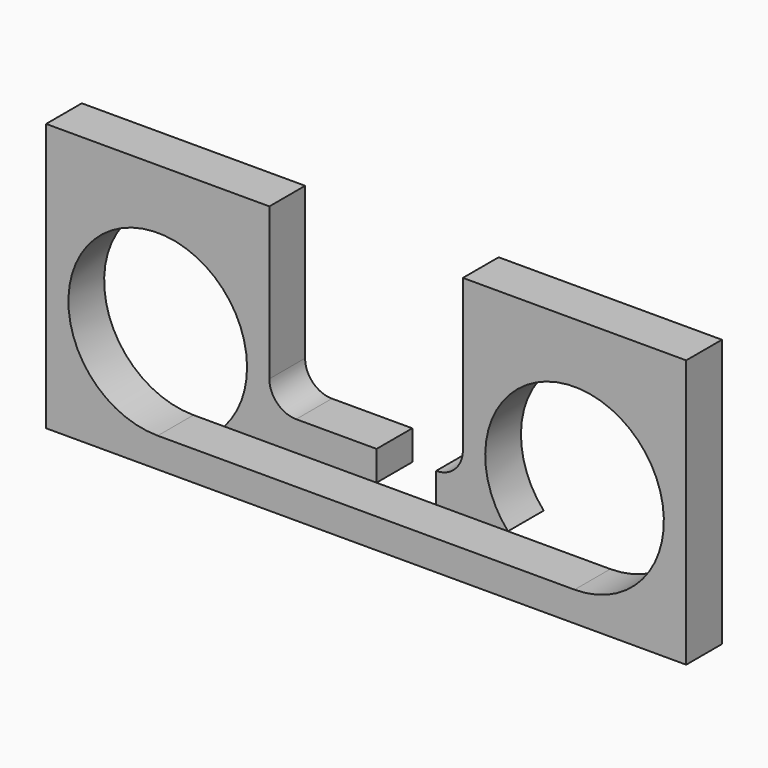
from build123d import *

# Parameters (mm, degrees)
F0_W     = 273.05
F0_H     = 114.3
F1_DEPTH = 19.05
F2_R     = 38.1
F3_DEPTH = 25.4
F5_DEPTH = 25.4
F7_DEPTH = 25.4


with BuildPart() as f1:
    # F0 (on Front) → F1 (new body)
    with BuildSketch(Plane.XZ):
        with Locations((136.525, 57.15)):
            Rectangle(F0_W, F0_H)
    extrude(amount=F1_DEPTH)

    # F2 (on face) → F3 (cut)
    with BuildSketch(Plane.XZ.offset(19.05)):
        with Locations((47.625, 50.8)):
            Circle(F2_R)
        with Locations((225.425, 50.8)):
            Circle(F2_R)
    extrude(amount=-F3_DEPTH, mode=Mode.SUBTRACT)

    # F4 (on face) → F5 (cut)
    with BuildSketch(Plane.XZ.offset(19.05)):
        with BuildLine():
            Line((177.8, 114.3), (95.25, 114.3))
            Line((95.25, 114.3), (95.25, 49.53))
            ThreePointArc((95.25, 49.53), (98.597769491, 41.447769491), (106.68, 38.1))
            Line((106.68, 38.1), (166.37, 38.1))
            ThreePointArc((166.37, 38.1), (174.452230509, 41.447769491), (177.8, 49.53))
            Line((177.8, 49.53), (177.8, 114.3))
        make_face()
    extrude(amount=-F5_DEPTH, mode=Mode.SUBTRACT)

    # F6 (on face) → F7 (cut)
    with BuildSketch(Plane.XZ.offset(19.05)):
        with BuildLine():
            Line((166.37, 38.1), (140.97, 38.1))
            Line((140.97, 38.1), (140.97, 25.4))
            Line((140.97, 25.4), (76.0230633142, 25.4))
            ThreePointArc((76.0230633142, 25.4), (63.1792598667, 16.0196175984), (47.625, 12.7))
            Line((47.625, 12.7), (225.425, 12.7))
            ThreePointArc((225.425, 12.7), (209.8707401333, 16.0196175984), (197.0269366858, 25.4))
            Line((197.0269366858, 25.4), (166.37, 25.4))
            Line((166.37, 25.4), (166.37, 38.1))
        make_face()
    extrude(amount=-F7_DEPTH, mode=Mode.SUBTRACT)


solid = f1.part
